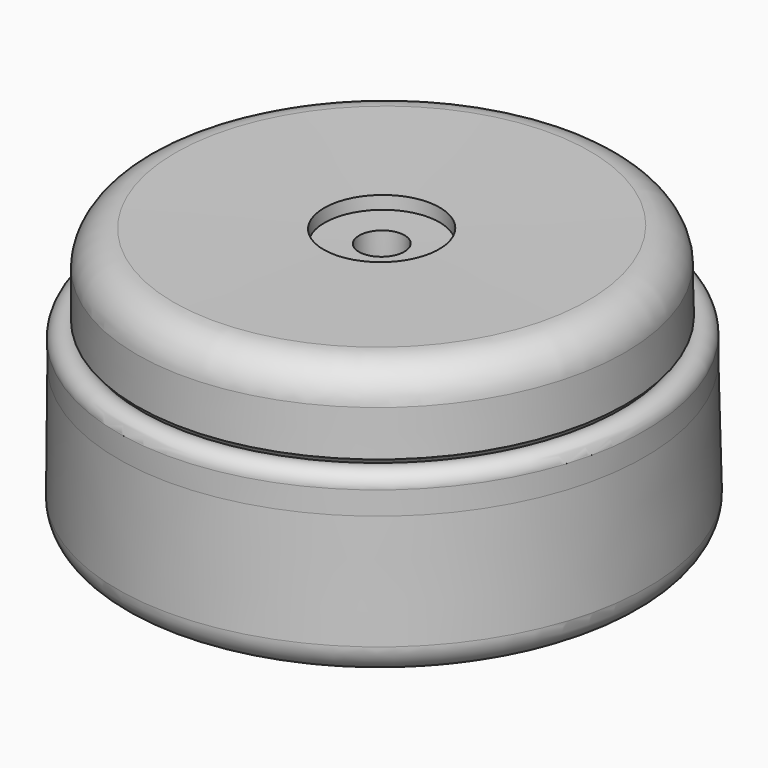
from build123d import *


with BuildPart() as f2:
    # F0 (on Front) → F2 (revolve)
    with BuildSketch(Plane.XZ):
        with BuildLine():
            Line((-1.3487565264, 7.9544333927), (-3.1521232403, 7.9434764208))
            Line((-3.1521232403, 7.9434764208), (-3.1521232403, 1.5934764208))
            Line((-3.1521232403, 1.5934764208), (-12.9311232403, 1.5993540598))
            Line((-12.9311232403, 1.5993540598), (-12.9072057985, 6.4858209717))
            Line((-12.9072057985, 6.4858209717), (-12.9072057985, 9.1265536233))
            ThreePointArc((-12.9072057985, 9.1265536233), (-13.709005966, 9.9213191128), (-14.4966750605, 9.1125465308))
            Line((-14.4966750605, 9.1125465308), (-14.4742932171, 7.8427437693))
            Line((-14.4742932171, 7.8427437693), (-14.5186232403, 1.5922685852))
            ThreePointArc((-14.5186232403, 1.5922685852), (-14.0507352368, 0.4747337572), (-12.9311232403, 0.0118382476))
            Line((-12.9311232403, 0.0118382476), (0, 0))
            Line((0, 0), (-0.0152662604, 1.5993382476))
            Line((-0.0152662604, 1.5993382476), (-1.3487565264, 1.6044333927))
            Line((-1.3487565264, 1.6044333927), (-1.3487565264, 7.9544333927))
        make_face()
    revolve(axis=Axis((-0.0076331302, 0, 0.7996691238), (-0.0095449258, 0, 0.9999544462)))


with BuildPart() as f3:
    # F1 (on Front) → F3 (revolve)
    with BuildSketch(Plane.XZ):
        with BuildLine():
            Line((-12.6935122535, 8.3888908848), (-9.5351571217, 8.3593046293))
            Line((-9.5351571217, 8.3593046293), (-9.5351571217, 11.4028118551))
            Line((-9.5351571217, 11.4028118551), (-1.372677274, 11.4028118551))
            Line((-1.372677274, 11.4028118551), (-1.372677274, 13.7276081368))
            Line((-1.372677274, 13.7276081368), (-3.2747837249, 13.7276081368))
            Line((-3.2747837249, 13.7276081368), (-3.2982663251, 14.4350982725))
            Line((-3.2982663251, 14.4350982725), (-11.470278725, 14.4478557631))
            ThreePointArc((-11.470278725, 14.4478557631), (-12.846220754, 13.8988644377), (-13.466315344, 12.5534683466))
            Line((-13.466315344, 12.5534683466), (-13.466315344, 10.0622076932))
            ThreePointArc((-13.466315344, 10.0622076932), (-12.8947796338, 9.6808417755), (-12.6935122535, 9.0238908848))
            Line((-12.6935122535, 9.0238908848), (-12.6935122535, 8.3888908848))
        make_face()
    revolve(axis=Axis((-0.0076331302, 0, 0.7996691238), (-0.0095449258, 0, 0.9999544462)))


solid = Compound([f2.part, f3.part])
